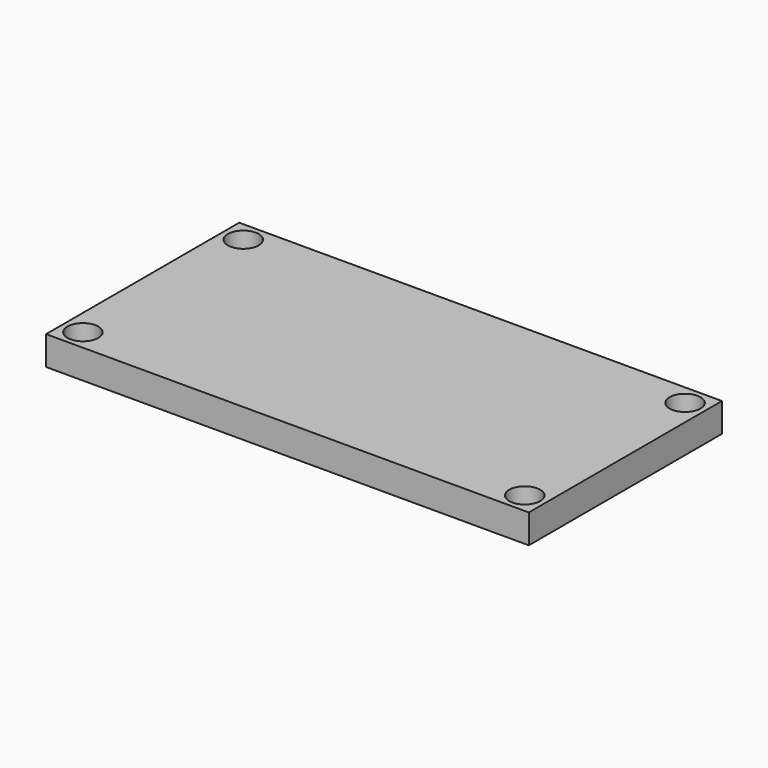
from build123d import *

# Parameters (mm, degrees)
F0_W     = 50
F0_H     = 25
F1_DEPTH = 3
F3_D     = 3.2


with BuildPart() as f1:
    # F0 (on Top) → F1 (new body)
    with BuildSketch(Plane.XY):
        with Locations((25, 11.048387)):
            Rectangle(F0_W, F0_H)
    extrude(amount=F1_DEPTH)

    # F3 (through all)
    with Locations(Plane.XY.offset(3)):
        with Locations((2.12132, 21.427067), (47.87868, 21.427067), (47.87868, 0.669707), (2.12132, 0.669707)):
            Hole(F3_D / 2)


solid = f1.part
